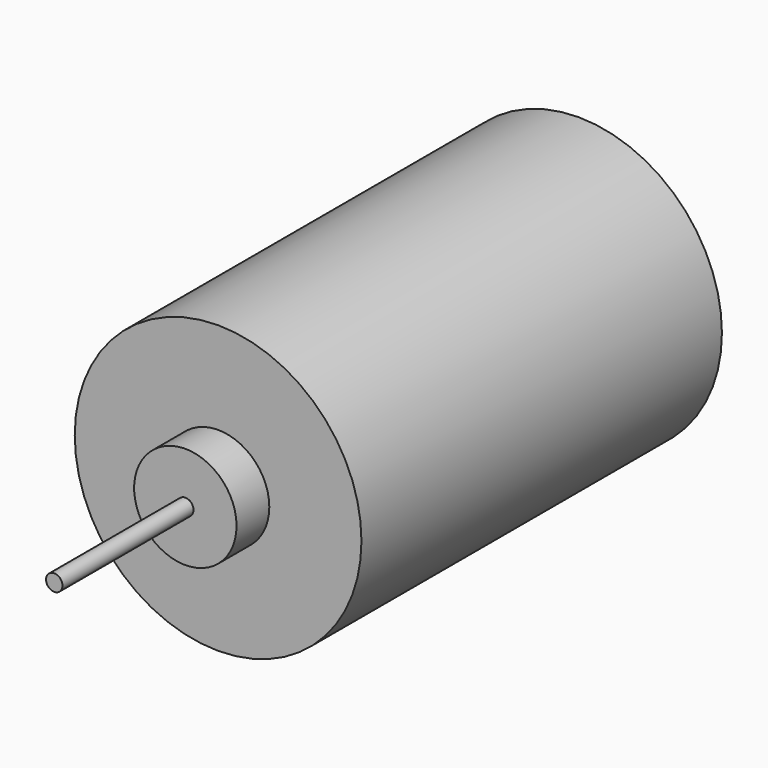
from build123d import *

# Parameters (mm, degrees)
F0_R     = 1
F1_DEPTH = 20
F2_R     = 6.25
F3_DEPTH = 5
F5_R     = 17.5
F6_DEPTH = 55


with BuildPart() as f1:
    # F0 (on Front) → F1 (new body)
    with BuildSketch(Plane.XZ):
        Circle(F0_R)
    extrude(amount=F1_DEPTH)

    # F2 (on Front) → F3 (join)
    with BuildSketch(Plane.XZ):
        Circle(F2_R)
    extrude(amount=-F3_DEPTH)

    # F5 (on offset) → F6 (join)
    with BuildSketch(Plane.XZ.offset(-5)):
        Circle(F5_R)
    extrude(amount=-F6_DEPTH)


solid = f1.part
